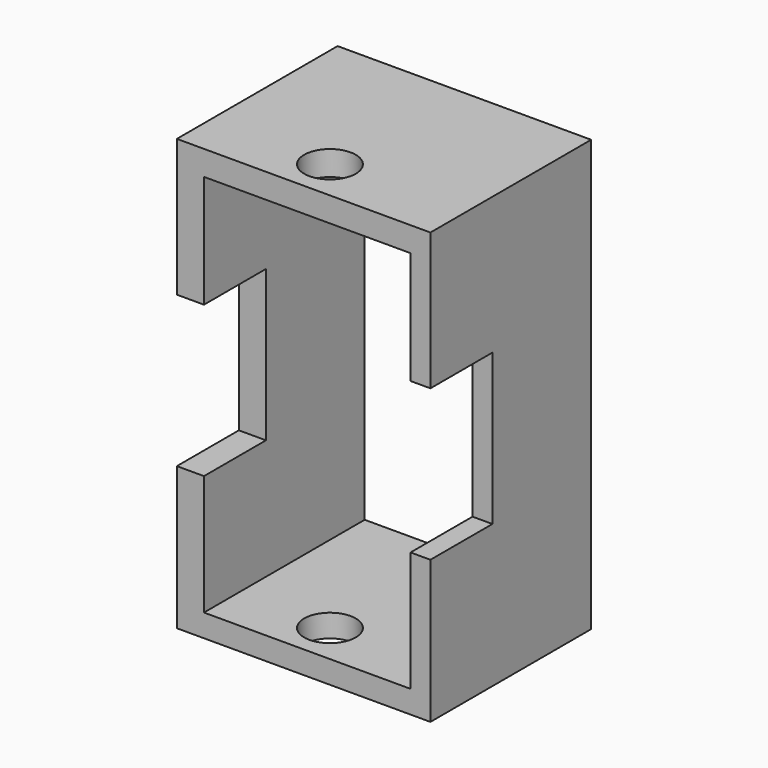
from build123d import *

# Parameters (mm, degrees)
F0_W     = 64.112249
F0_H     = 108.938705
F1_DEPTH = 50.8
F3_W     = 52.236052
F3_H     = 96.981097
F4_DEPTH = 131.318
F2_W     = 19.592841
F2_H     = 38.154388
F5_DEPTH = 116.078
F6_R     = 6.513385
F7_DEPTH = 143.51


with BuildPart() as f1:
    # F0 (on Front) → F1 (new body)
    with BuildSketch(Plane.XZ):
        with Locations((-5.863925, -9.51259)):
            Rectangle(F0_W, F0_H)
    extrude(amount=F1_DEPTH)

    # F3 (on face) → F4 (cut)
    with BuildSketch(Plane.XZ.offset(50.8)):
        with Locations((-4.947773, -9.76373)):
            Rectangle(F3_W, F3_H)
    extrude(amount=-F4_DEPTH, mode=Mode.SUBTRACT)

    # F2 (on face) → F5 (cut)
    with BuildSketch(Plane(origin=(-37.92005, 0, 0), x_dir=(0, -1, 0), z_dir=(-1, 0, 0))):
        with Locations((41.00358, -8.810162)):
            Rectangle(F2_W, F2_H)
    extrude(amount=-F5_DEPTH, mode=Mode.SUBTRACT)

    # F6 (on face) → F7 (cut)
    with BuildSketch(Plane(origin=(0, 0, -63.981943), x_dir=(1, 0, 0), z_dir=(0, 0, -1))):
        with Locations((-7.528701, 40.396869)):
            Circle(F6_R)
    extrude(amount=-F7_DEPTH, mode=Mode.SUBTRACT)


solid = f1.part
